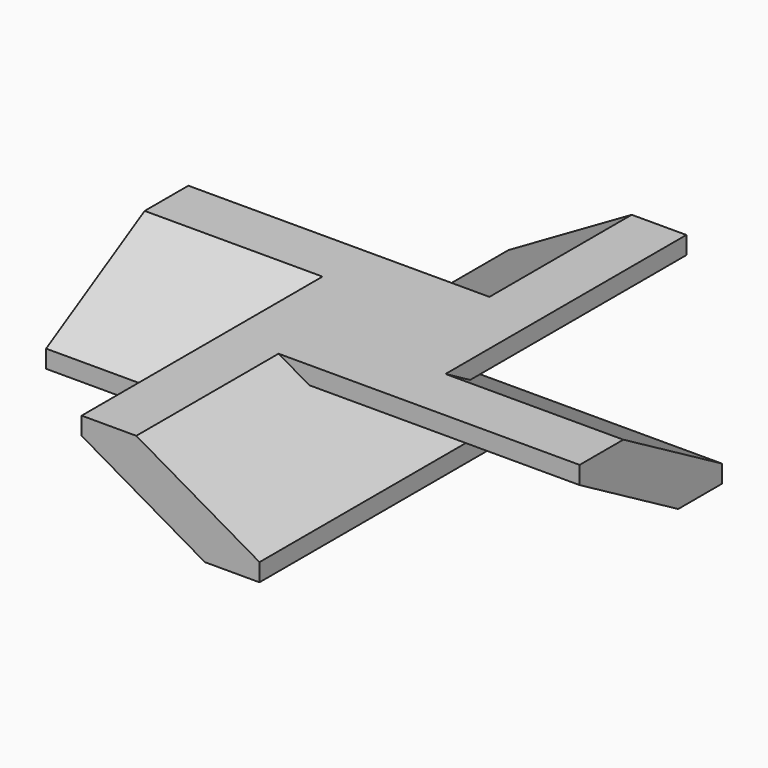
from build123d import *

# Parameters (mm, degrees)
F1_DEPTH   = 12.7
F2_SIZE2   = 17.5976362049
F2_SIZE    = 10.16
F2_2_SIZE2 = 17.5976362049
F2_2_SIZE  = 10.16
F3_SIZE2   = 10.16
F3_SIZE    = 17.5976362049
F3_2_SIZE2 = 10.16
F3_2_SIZE  = 17.5976362049
F4_SIZE2   = 10.16
F4_SIZE    = 17.5976362049


with BuildPart() as f1:
    # F0 (on Top) → F1 (new body)
    with BuildSketch(Plane.XY):
        Polygon((12.7, 38.1), (-12.7, 38.1), (-12.7, 12.7), (-38.1, 12.7), (-38.1, -12.7), (-12.7, -12.7), (-12.7, -38.1), (12.7, -38.1), (12.7, -12.7), (38.1, -12.7), (38.1, 12.7), (12.7, 12.7), align=None)
    extrude(amount=F1_DEPTH)

    # F2
    f2_edges = [f1.edges().sort_by_distance(p)[0] for p in [
        (-12.7, -25.4, 0),
    ]]
    f2_side = f1.faces().sort_by_distance((-12.7, -25.4, 6.35))[0]
    chamfer(f2_edges, length=F2_SIZE, length2=F2_SIZE2, reference=f2_side)

    # F2#2
    f2_2_edges = [f1.edges().sort_by_distance(p)[0] for p in [
        (12.7, -25.4, 12.7),
    ]]
    f2_2_side = f1.faces().sort_by_distance((12.7, -25.4, 6.35))[0]
    chamfer(f2_2_edges, length=F2_2_SIZE, length2=F2_2_SIZE2, reference=f2_2_side)

    # F3
    f3_edges = [f1.edges().sort_by_distance(p)[0] for p in [
        (-25.4, 12.7, 0),
        (12.7, 25.4, 0),
        (25.4, -12.7, 0),
    ]]
    f3_side = f1.faces().sort_by_distance((0.627515, 4.085652, 0))[0]
    chamfer(f3_edges, length=F3_SIZE, length2=F3_SIZE2, reference=f3_side)

    # F3#2
    f3_2_edges = [f1.edges().sort_by_distance(p)[0] for p in [
        (-25.4, -12.7, 12.7),
    ]]
    f3_2_side = f1.faces().sort_by_distance((-0.627515, 4.085652, 12.7))[0]
    chamfer(f3_2_edges, length=F3_2_SIZE, length2=F3_2_SIZE2, reference=f3_2_side)

    # F4
    f4_edges = [f1.edges().sort_by_distance(p)[0] for p in [
        (-12.7, 25.4, 12.7),
        (25.4, 12.7, 12.7),
    ]]
    f4_side = f1.faces().sort_by_distance((4.121012, 5.616612, 12.7))[0]
    chamfer(f4_edges, length=F4_SIZE, length2=F4_SIZE2, reference=f4_side)


solid = f1.part
